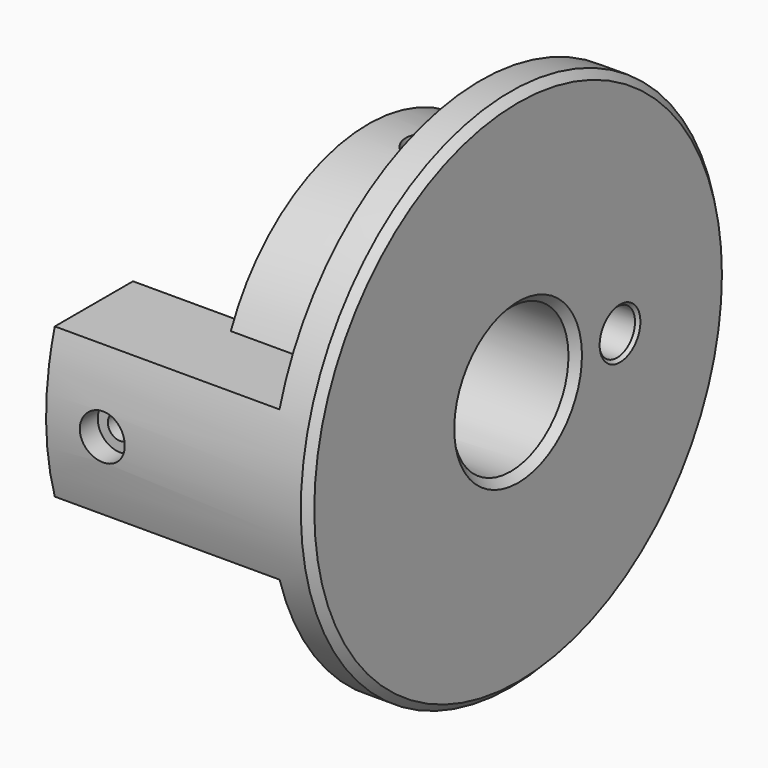
from build123d import *

# Parameters (mm, degrees)
CYLINDER016_R               = 3
CYLINDER016_DEPTH           = 10
CYLINDER014_R               = 3
CYLINDER014_DEPTH           = 11
CYLINDER028_R               = 2.1
CYLINDER028_DEPTH           = 11
CYLINDER029_R               = 2.1
CYLINDER029_DEPTH           = 10
CYLINDER017_R               = 3
CYLINDER017_DEPTH           = 8
CYLINDER017_PLACEMENT_ANGLE = 89.98
CYLINDER019_R               = 1.65
CYLINDER019_DEPTH           = 61
CYLINDER019_PLACEMENT_ANGLE = 89.98
CYLINDER015_R               = 1.65
CYLINDER015_DEPTH           = 59
CYLINDER012_R               = 3
CYLINDER012_DEPTH           = 37
CYLINDER012_PLACEMENT_ANGLE = 89.98
CYLINDER011_R               = 1.65
CYLINDER011_DEPTH           = 37
CYLINDER011_PLACEMENT_ANGLE = 89.98
CYLINDER006_R               = 9.65
CYLINDER006_DEPTH           = 20
CYLINDER006_PLACEMENT_ANGLE = 89.98
BOX010_W                    = 48
BOX010_H                    = 60
BOX010_DEPTH                = 89
CYLINDER009_R               = 35
CYLINDER009_DEPTH           = 30
CYLINDER009_PLACEMENT_ANGLE = 89.98
BOX011_W                    = 32
BOX011_H                    = 20
BOX011_DEPTH                = 20
CYLINDER008_R               = 35
CYLINDER008_DEPTH           = 5
CYLINDER008_PLACEMENT_ANGLE = 89.98
CYLINDER007_R               = 25
CYLINDER007_DEPTH           = 20
CYLINDER007_PLACEMENT_ANGLE = 89.98
CHAMFER014_SIZE             = 1
CHAMFER015_SIZE             = 0.4


with BuildPart() as cylinder016:
    # Cylinder016 → Cylinder016 (new body)
    with BuildSketch(Plane(origin=(28, -50, -7), x_dir=(1, 0, 0), z_dir=(0, 0, 1))):
        Circle(CYLINDER016_R)
    extrude(amount=CYLINDER016_DEPTH)


with BuildPart() as cylinder014:
    # Cylinder014 → Cylinder014 (new body)
    with BuildSketch(Plane(origin=(28, -50, 47), x_dir=(1, 0, 0), z_dir=(0, 0, 1))):
        Circle(CYLINDER014_R)
    extrude(amount=CYLINDER014_DEPTH)


with BuildPart() as cylinder028:
    # Cylinder028 → Cylinder028 (new body)
    with BuildSketch(Plane(origin=(28, -50, 40), x_dir=(1, 0, 0), z_dir=(0, 0, 1))):
        Circle(CYLINDER028_R)
    extrude(amount=CYLINDER028_DEPTH)


with BuildPart() as cylinder029:
    # Cylinder029 → Cylinder029 (new body)
    with BuildSketch(Plane(origin=(28, -50, 0), x_dir=(1, 0, 0), z_dir=(0, 0, 1))):
        Circle(CYLINDER029_R)
    extrude(amount=CYLINDER029_DEPTH)


with BuildPart() as cylinder017:
    # Cylinder017 → Cylinder017 (new body)
    with BuildSketch(Plane.XY):
        Circle(CYLINDER017_R)
    extrude(amount=CYLINDER017_DEPTH)


with BuildPart() as cylinder017_1:
    # Cylinder017 placement: moved
    add(cylinder017.part.moved(Location((34.991271, -33, 25.012216))).rotate(Axis((34.991271, -33, 25.012216), (0, 1, 0)), CYLINDER017_PLACEMENT_ANGLE))


with BuildPart() as cylinder019:
    # Cylinder019 → Cylinder019 (new body)
    with BuildSketch(Plane.XY):
        Circle(CYLINDER019_R)
    extrude(amount=CYLINDER019_DEPTH)


with BuildPart() as cylinder019_1:
    # Cylinder019 placement: moved
    add(cylinder019.part.moved(Location((3.991273, -33, 25.001395))).rotate(Axis((3.991273, -33, 25.001395), (0, 1, 0)), CYLINDER019_PLACEMENT_ANGLE))


with BuildPart() as cylinder015:
    # Cylinder015 → Cylinder015 (new body)
    with BuildSketch(Plane(origin=(28, -50, 0), x_dir=(1, 0, 0), z_dir=(0, 0, 1))):
        Circle(CYLINDER015_R)
    extrude(amount=CYLINDER015_DEPTH)


with BuildPart() as cylinder012:
    # Cylinder012 → Cylinder012 (new body)
    with BuildSketch(Plane.XY):
        Circle(CYLINDER012_R)
    extrude(amount=CYLINDER012_DEPTH)


with BuildPart() as cylinder012_1:
    # Cylinder012 placement: moved
    add(cylinder012.part.moved(Location((12.5, -119.008725, 24.989876))).rotate(Axis((12.5, -119.008725, 24.989876), (-1, 0, 0)), CYLINDER012_PLACEMENT_ANGLE))


with BuildPart() as cylinder011:
    # Cylinder011 → Cylinder011 (new body)
    with BuildSketch(Plane.XY):
        Circle(CYLINDER011_R)
    extrude(amount=CYLINDER011_DEPTH)


with BuildPart() as cylinder011_1:
    # Cylinder011 placement: moved
    add(cylinder011.part.moved(Location((12.5, -90.008727, 24.999998))).rotate(Axis((12.5, -90.008727, 24.999998), (-1, 0, 0)), CYLINDER011_PLACEMENT_ANGLE))


with BuildPart() as cylinder006:
    # Cylinder006 → Cylinder006 (new body)
    with BuildSketch(Plane.XY):
        Circle(CYLINDER006_R)
    extrude(amount=CYLINDER006_DEPTH)


with BuildPart() as cylinder006_1:
    # Cylinder006 placement: moved
    add(cylinder006.part.moved(Location((24.991272, -50, 25.008725))).rotate(Axis((24.991272, -50, 25.008725), (0, 1, 0)), CYLINDER006_PLACEMENT_ANGLE))


with BuildPart() as cube010:
    # Box010 → Box010 (new body)
    with BuildSketch(Plane(origin=(0, -70.5, -13), x_dir=(1, 0, 0), z_dir=(0, 0, 1))):
        with Locations((24, 30)):
            Rectangle(BOX010_W, BOX010_H)
    extrude(amount=BOX010_DEPTH)


with BuildPart() as cut005:
    # Cylinder009 → Cylinder009 (new body)
    with BuildSketch(Plane.XY):
        Circle(CYLINDER009_R)
    extrude(amount=CYLINDER009_DEPTH)


with BuildPart() as cut005_1:
    # Cylinder009 placement: moved
    add(cut005.part.moved(Location((9.991273, -50, 25.003489))).rotate(Axis((9.991273, -50, 25.003489), (0, 1, 0)), CYLINDER009_PLACEMENT_ANGLE))

    # Cut005: cut Cube010
    add(cube010.part, mode=Mode.SUBTRACT)


with BuildPart() as common:
    # Box011 → Box011 (new body)
    with BuildSketch(Plane(origin=(10, -90, 15), x_dir=(1, 0, 0), z_dir=(0, 0, 1))):
        with Locations((16, 10)):
            Rectangle(BOX011_W, BOX011_H)
    extrude(amount=BOX011_DEPTH)

    # Common: intersect Cut005
    add(cut005_1.part, mode=Mode.INTERSECT)


with BuildPart() as cylinder008:
    # Cylinder008 → Cylinder008 (new body)
    with BuildSketch(Plane.XY):
        Circle(CYLINDER008_R)
    extrude(amount=CYLINDER008_DEPTH)


with BuildPart() as cylinder008_1:
    # Cylinder008 placement: moved
    add(cylinder008.part.moved(Location((39.991271, -50, 25.013961))).rotate(Axis((39.991271, -50, 25.013961), (0, 1, 0)), CYLINDER008_PLACEMENT_ANGLE))


with BuildPart() as spool_side:
    # Cylinder007 → Cylinder007 (new body)
    with BuildSketch(Plane.XY):
        Circle(CYLINDER007_R)
    extrude(amount=CYLINDER007_DEPTH)


with BuildPart() as spool_side_1:
    # Cylinder007 placement: moved
    add(spool_side.part.moved(Location((24.991272, -50, 25.008725))).rotate(Axis((24.991272, -50, 25.008725), (0, 1, 0)), CYLINDER007_PLACEMENT_ANGLE))

    # Fusion003003: union Common, Cylinder008
    add(common.part)
    add(cylinder008_1.part)

    # Cut006: cut Cylinder006
    add(cylinder006_1.part, mode=Mode.SUBTRACT)


with BuildPart() as spool_side_2:
    # Cut006 placement: moved
    add(spool_side_1.part.moved(Location((-5, 0, 0))))

    # Cut009: cut Cylinder011
    add(cylinder011_1.part, mode=Mode.SUBTRACT)

    # Cut010: cut Cylinder012
    add(cylinder012_1.part, mode=Mode.SUBTRACT)

    # Cut011: cut Cylinder015
    add(cylinder015.part, mode=Mode.SUBTRACT)

    # Cut028: cut Cylinder019
    add(cylinder019_1.part, mode=Mode.SUBTRACT)

    # Cut029: cut Cylinder017
    add(cylinder017_1.part, mode=Mode.SUBTRACT)

    # Cut030: cut Cylinder029
    add(cylinder029.part, mode=Mode.SUBTRACT)

    # Cut031: cut Cylinder028
    add(cylinder028.part, mode=Mode.SUBTRACT)

    # Cut032: cut Cylinder014
    add(cylinder014.part, mode=Mode.SUBTRACT)

    # Cut033: cut Cylinder016
    add(cylinder016.part, mode=Mode.SUBTRACT)

    # Chamfer014
    chamfer014_edges = [spool_side_2.edges().sort_by_distance(p)[0] for p in [
        (39.987902, -50, 34.665706),
        (39.979053, -50, 60.015704),
    ]]
    chamfer(chamfer014_edges, length=CHAMFER014_SIZE)

    # Chamfer015
    chamfer015_edges = [spool_side_2.edges().sort_by_distance(p)[0] for p in [
        (39.990224, -33, 28.013961),
    ]]
    chamfer(chamfer015_edges, length=CHAMFER015_SIZE)


solid = spool_side_2.part
